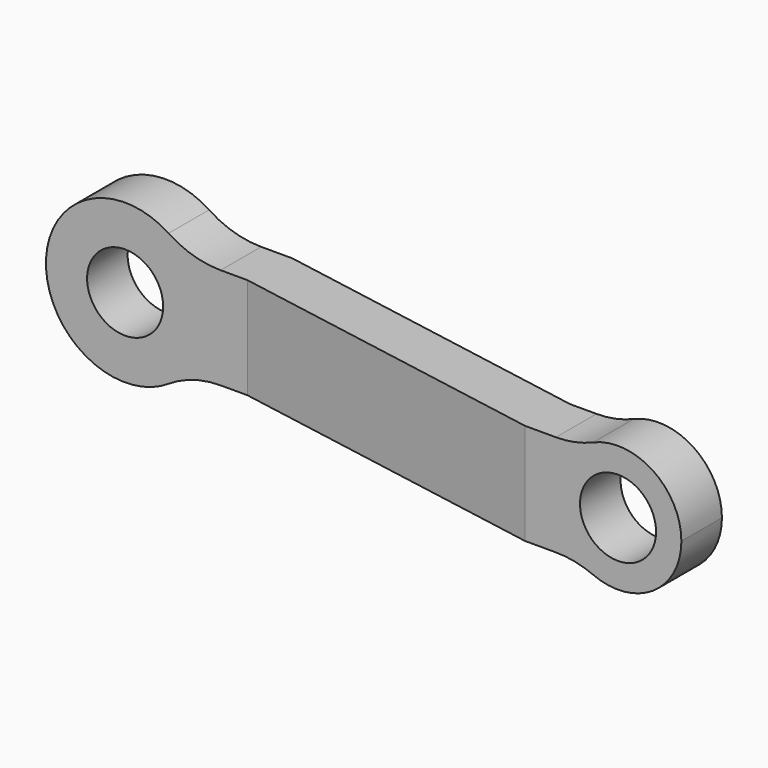
from build123d import *

# Parameters (mm, degrees)
F0_R     = 6
F1_DEPTH = 25
F3_DEPTH = 12.7
F4_R     = 15
F5_R     = 15


with BuildPart() as f1:
    # F0 (on Front) → F1 (new body)
    with BuildSketch(Plane.XZ):
        with BuildLine():
            ThreePointArc((9.604686, -8), (11.753905, -4.253905), (12.5, 0))
            ThreePointArc((12.5, 0), (11.753905, 4.253905), (9.604686, 8))
            ThreePointArc((9.604686, 8), (-12.5, 0), (9.604686, -8))
        make_face()
        Circle(F0_R, mode=Mode.SUBTRACT)
        with BuildLine():
            ThreePointArc((9.604686, 8), (11.753905, 4.253905), (12.5, 0))
            ThreePointArc((12.5, 0), (11.753905, -4.253905), (9.604686, -8))
            Line((9.604686, -8), (79, -8))
            ThreePointArc((79, -8), (75, 0), (79, 8))
            Line((79, 8), (9.604686, 8))
        make_face()
        with BuildLine():
            ThreePointArc((95, 0), (89.472136, 8.944272), (79, 8))
            ThreePointArc((79, 8), (75, 0), (79, -8))
            ThreePointArc((79, -8), (89.472136, -8.944272), (95, 0))
        make_face()
        with Locations((85, 0)):
            Circle(F0_R, mode=Mode.SUBTRACT)
    extrude(amount=F1_DEPTH)

    # F2 (on Top) → F3 (intersect, symmetric)
    with BuildSketch(Plane.XY):
        Polygon((20, 0), (0, 0), (-12.5, 0), (-12.5, -8), (0, -8), (19.300091, -8), (70.341627, -17), (95, -17), (95, -9), (71.041536, -9), align=None)
    extrude(amount=F3_DEPTH, both=True, mode=Mode.INTERSECT)

    # F4
    f4_edges = [f1.edges().sort_by_distance(p)[0] for p in [
        (79, -13, 8),
    ]]
    fillet(f4_edges, radius=F4_R)

    # F5
    f5_edges = [f1.edges().sort_by_distance(p)[0] for p in [
        (9.604686, -4, 8),
        (9.604686, -4, -8),
        (79, -13, -8),
    ]]
    fillet(f5_edges, radius=F5_R)


solid = f1.part
